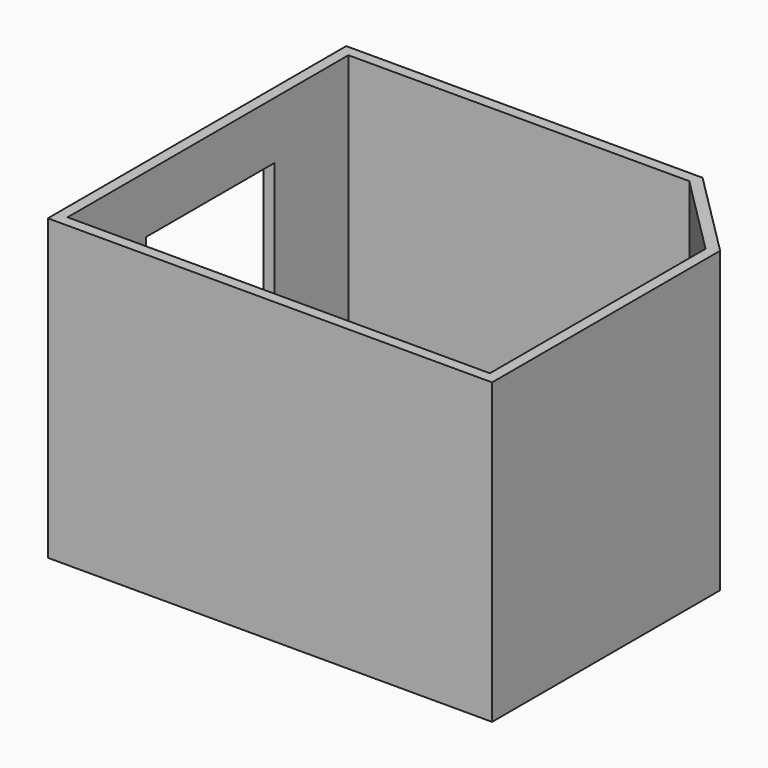
from build123d import *

# Parameters (mm, degrees)
F1_DEPTH = 25.4
F3_DEPTH = 2743.2
F4_DEPTH = 25.4
F5_DEPTH = 2743.201
F6_W     = 1485.9
F6_H     = 1181.1
F7_DEPTH = 101.601
F8_W     = 762
F8_H     = 2044.7
F9_DEPTH = 677.085098


with BuildPart() as f1:
    # F0 (on Top) → F1 (new body)
    with BuildSketch(Plane.XY):
        Polygon((3157.258486, 0), (0, 0), (0, -3251.2), (3911.6, -3251.2), (3911.6, -754.341514), align=None)
    extrude(amount=-F1_DEPTH)

    # F2 (on Top) → F3 (join)
    with BuildSketch(Plane.XY):
        Polygon((3199.342584, 101.6), (-101.6, 101.6), (-101.6, -3352.8), (4013.2, -3352.8), (4013.2, -712.257416), align=None)
    extrude(amount=F3_DEPTH)

    # F2 (on Top) → F4 (join, through all)
    with BuildSketch(Plane.XY):
        Polygon((3199.342584, 101.6), (-101.6, 101.6), (-101.6, -3352.8), (4013.2, -3352.8), (4013.2, -712.257416), align=None)
    extrude(amount=-F4_DEPTH)

    # F0 (on Top) → F5 (cut, through all)
    with BuildSketch(Plane.XY):
        Polygon((3157.258486, 0), (0, 0), (0, -3251.2), (3911.6, -3251.2), (3911.6, -754.341514), align=None)
    extrude(amount=F5_DEPTH, mode=Mode.SUBTRACT)

    # F6 (on face) → F7 (cut, through all)
    with BuildSketch(Plane.YZ):
        with Locations((-1600.2, 1622.425)):
            Rectangle(F6_W, F6_H)
    extrude(amount=-F7_DEPTH, mode=Mode.SUBTRACT)

    # F8 (on face) → F9 (cut, through all)
    with BuildSketch(Plane(origin=(1578.629243, 1578.629243, 0), x_dir=(0.707107, -0.707107, 0), z_dir=(-0.707107, -0.707107, 0))):
        with Locations((2746.868885, 1022.35)):
            Rectangle(F8_W, F8_H)
    extrude(amount=-F9_DEPTH, mode=Mode.SUBTRACT)


solid = f1.part
